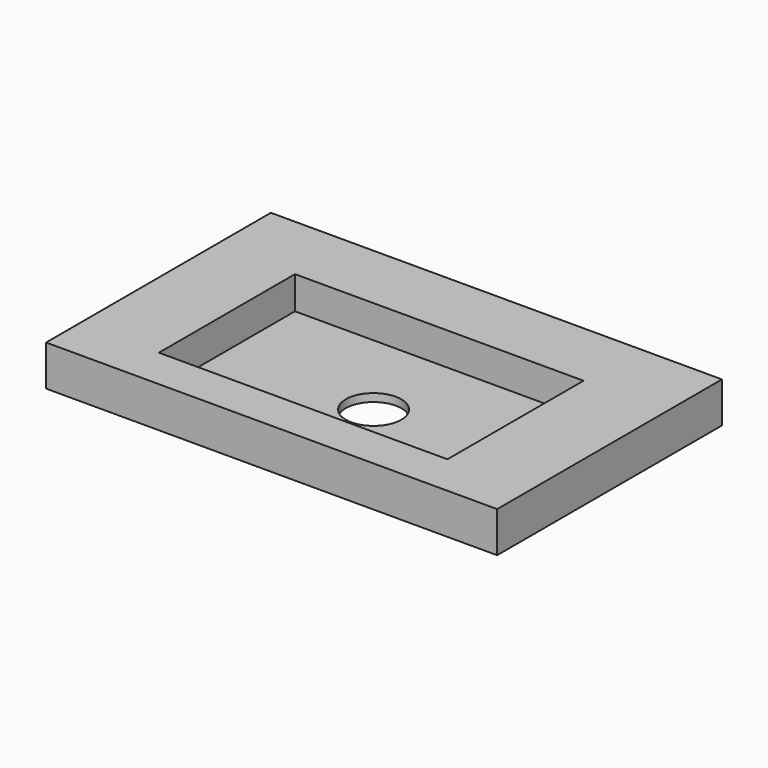
from build123d import *

# Parameters (mm, degrees)
F1_DEPTH = 9.144
F2_W     = 64.972662
F2_H     = 38.302661
F3_DEPTH = 7.366
F5_D     = 12.5


with BuildPart() as f1:
    # F0 (on Top) → F1 (new body)
    with BuildSketch(Plane.XY):
        Polygon((49.50973, 36.174733), (0, 36.174733), (-52.063245, 36.174733), (-52.063245, -27.095586), (49.50973, -27.095586), align=None)
    extrude(amount=-F1_DEPTH)

    # F2 (on Top) → F3 (cut)
    with BuildSketch(Plane.XY):
        with Locations((-1.661934, 1.418617)):
            Rectangle(F2_W, F2_H)
    extrude(amount=-F3_DEPTH, mode=Mode.SUBTRACT)

    # F5 (through all)
    with Locations(Plane.XY):
        with Locations((0, 0)):
            Hole(F5_D / 2)


solid = f1.part
